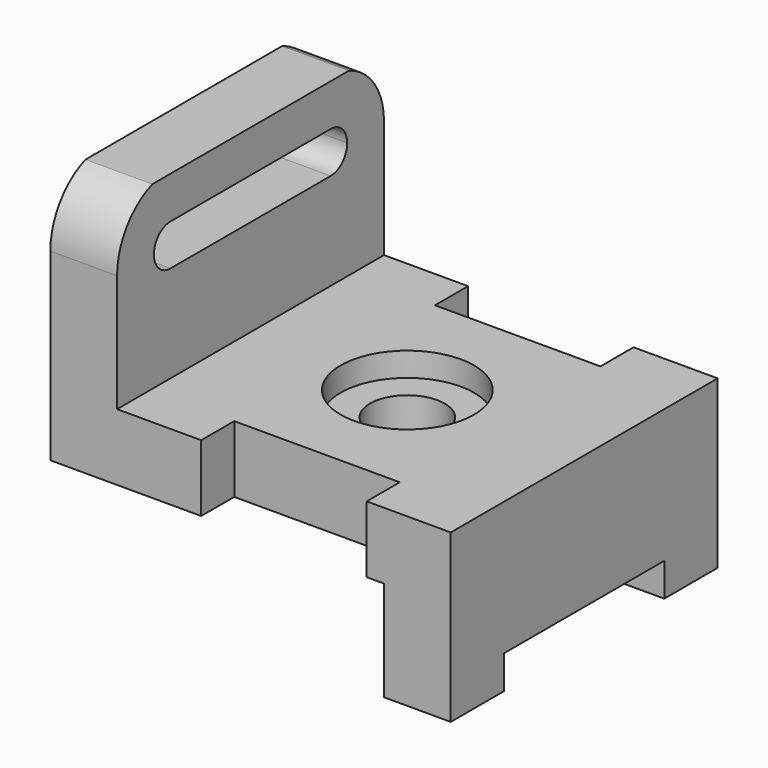
from build123d import *

# Parameters (mm, degrees)
F1_DEPTH  = 31.75
F2_W      = 31.496
F2_H      = 7.874
F3_DEPTH  = 31.751
F4_R      = 7.112
F5_DEPTH  = 31.751
F6_R      = 12.7
F7_DEPTH  = 4.572
F8_W      = 38.1
F8_H      = 6.35
F9_DEPTH  = 76.201
F10_W     = 3.302
F10_H     = 19.05
F11_DEPTH = 63.501
F13_DEPTH = 12.701
F14_DEPTH = 12.701


with BuildPart() as f1:
    # F0 (on Front) → F1 (new body, symmetric)
    with BuildSketch(Plane.XZ):
        Polygon((0, 46.99), (0, 0), (60.198, 0), (60.198, -19.05), (76.2, -19.05), (76.2, 12.7), (12.7, 12.7), (12.7, 46.99), align=None)
    extrude(amount=F1_DEPTH, both=True)

    # F2 (on face) → F3 (cut, through all)
    with BuildSketch(Plane.XY.offset(12.7)):
        with Locations((44.45, 27.813)):
            Rectangle(F2_W, F2_H)
        with Locations((44.45, -27.813)):
            Rectangle(F2_W, F2_H)
    extrude(amount=-F3_DEPTH, mode=Mode.SUBTRACT)

    # F4 (on face) → F5 (cut, through all)
    with BuildSketch(Plane.XY.offset(12.7)):
        with Locations((42.538862, 0)):
            Circle(F4_R)
    extrude(amount=-F5_DEPTH, mode=Mode.SUBTRACT)

    # F6 (on face) → F7 (cut)
    with BuildSketch(Plane.XY.offset(12.7)):
        with Locations((42.538862, 0)):
            Circle(F6_R)
    extrude(amount=-F7_DEPTH, mode=Mode.SUBTRACT)

    # F8 (on face) → F9 (cut, through all)
    with BuildSketch(Plane.YZ.offset(76.2)):
        with Locations((0, -15.875)):
            Rectangle(F8_W, F8_H)
    extrude(amount=-F9_DEPTH, mode=Mode.SUBTRACT)

    # F10 (on face) → F11 (cut, through all)
    with BuildSketch(Plane.XZ.offset(31.75)):
        with Locations((61.849, -9.525)):
            Rectangle(F10_W, F10_H)
    extrude(amount=-F11_DEPTH, mode=Mode.SUBTRACT)

    # F12 (on face) → F13 (cut, through all)
    with BuildSketch(Plane.YZ.offset(12.7)):
        with BuildLine():
            ThreePointArc((-31.75, 35.052), (-29.449953, 42.341101), (-23.382915, 46.99))
            Line((-23.382915, 46.99), (-31.75, 46.99))
            Line((-31.75, 46.99), (-31.75, 35.052))
        make_face()
        with BuildLine():
            Line((31.75, 46.99), (23.382915, 46.99))
            ThreePointArc((23.382915, 46.99), (29.449953, 42.341101), (31.75, 35.052))
            Line((31.75, 35.052), (31.75, 46.99))
        make_face()
    extrude(amount=-F13_DEPTH, mode=Mode.SUBTRACT)

    # F12 (on face) → F14 (cut, through all)
    with BuildSketch(Plane.YZ.offset(12.7)):
        with BuildLine():
            ThreePointArc((-19.05, 31.115), (-16.266121, 32.268121), (-15.113, 35.052))
            ThreePointArc((-15.113, 35.052), (-16.266121, 37.835879), (-19.05, 38.989))
            ThreePointArc((-19.05, 38.989), (-22.987, 35.052), (-19.05, 31.115))
        make_face()
        with BuildLine():
            ThreePointArc((-19.05, 38.989), (-16.266121, 37.835879), (-15.113, 35.052))
            ThreePointArc((-15.113, 35.052), (-16.266121, 32.268121), (-19.05, 31.115))
            Line((-19.05, 31.115), (19.05, 31.115))
            ThreePointArc((19.05, 31.115), (15.113, 35.052), (19.05, 38.989))
            Line((19.05, 38.989), (-19.05, 38.989))
        make_face()
        with BuildLine():
            ThreePointArc((22.987, 35.052), (21.833879, 37.835879), (19.05, 38.989))
            ThreePointArc((19.05, 38.989), (15.113, 35.052), (19.05, 31.115))
            ThreePointArc((19.05, 31.115), (21.833879, 32.268121), (22.987, 35.052))
        make_face()
    extrude(amount=-F14_DEPTH, mode=Mode.SUBTRACT)


solid = f1.part
